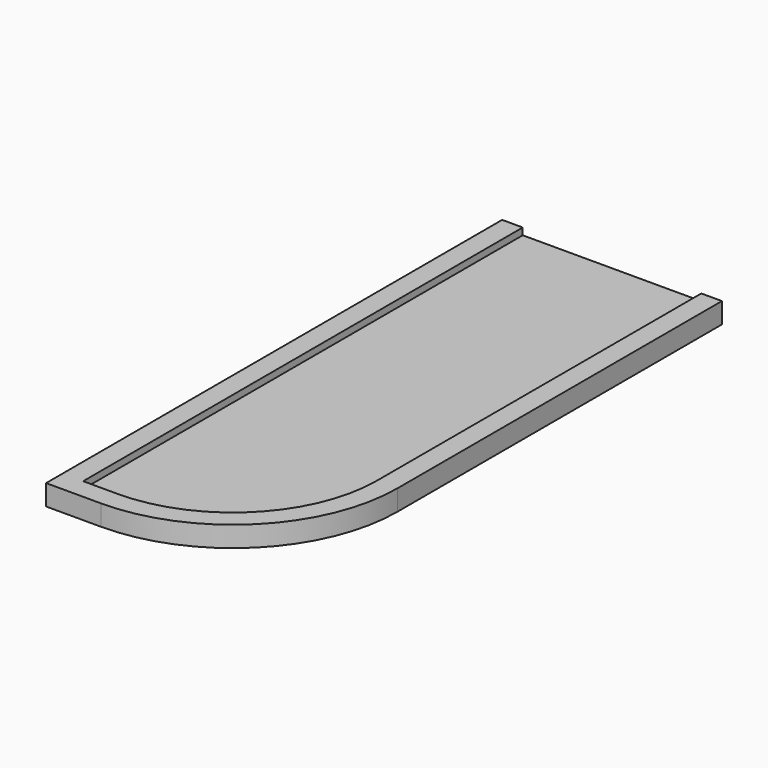
from build123d import *

# Parameters (mm, degrees)
PAD_DEPTH    = 3
POCKET_DEPTH = 1


with BuildPart() as part:
    # Sketch → Pad (new body)
    with BuildSketch(Plane.XY):
        with BuildLine():
            Line((0, 0), (8, 0))
            ThreePointArc((8, 0), (24.970563, 7.029437), (32, 24))
            Line((32, 24), (32, 83))
            Line((32, 83), (0, 83))
            Line((0, 83), (0, 0))
        make_face()
    extrude(amount=PAD_DEPTH)

    # Sketch001 (on Face7 of Pad) → Pocket (cut)
    with BuildSketch(Plane.XY.offset(3)):
        with BuildLine():
            Line((3, 84), (3, 3))
            Line((3, 3), (8, 3))
            ThreePointArc((8, 3), (22.849242, 9.150758), (29, 24))
            Line((29, 24), (29, 84))
            Line((29, 84), (3, 84))
        make_face()
    extrude(amount=-POCKET_DEPTH, mode=Mode.SUBTRACT)


solid = part.part
